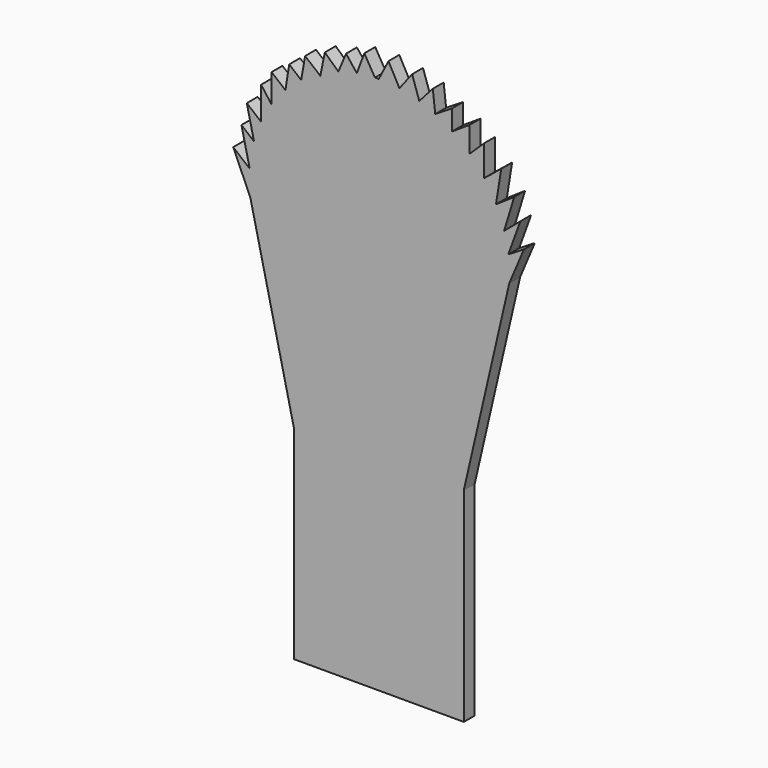
from build123d import *

# Parameters (mm, degrees)
F1_DEPTH = 2


with BuildPart() as f1:
    # F0 (on Front) → F1 (new body)
    with BuildSketch(Plane.XZ):
        with BuildLine():
            Line((-12.5, -15), (12.5, -15))
            Line((12.5, -15), (12.5, 15))
            Line((12.5, 15), (19.188319, 43.970291))
            Line((19.188319, 43.970291), (21.337286, 49.042992))
            Line((21.337286, 49.042992), (19.039087, 47.647727))
            Line((19.039087, 47.647727), (20.801328, 52.496947))
            Line((20.801328, 52.496947), (18.424573, 50.489065))
            Line((18.424573, 50.489065), (19.908065, 55.355389))
            Line((19.908065, 55.355389), (17.226272, 53.535521))
            Line((17.226272, 53.535521), (18.002436, 58.392484))
            Line((18.002436, 58.392484), (15.501298, 56.366656))
            Line((15.501298, 56.366656), (15.501298, 60.886702))
            Line((15.501298, 60.886702), (13.357465, 58.815028))
            Line((13.357465, 58.815028), (13.357465, 62.56105))
            Line((13.357465, 62.56105), (10.796777, 60.886702))
            Line((10.796777, 60.886702), (10.796777, 63.871168))
            Line((10.796777, 63.871168), (8.295841, 62.314177))
            Line((8.295841, 62.314177), (7.938334, 65.47904))
            Line((7.938334, 65.47904), (5.947843, 63.244458))
            Line((5.947843, 63.244458), (4.901238, 66.372305))
            Line((4.901238, 66.372305), (3.031312, 63.935702))
            Line((3.031312, 63.935702), (1.420656, 66.934533))
            Line((1.420656, 66.934533), (0, 64.162636))
            ThreePointArc((0, 64.162636), (-0.284516, 64.159145), (-0.568948, 64.151423))
            Line((-0.568948, 64.151423), (-2.127863, 66.794239))
            Line((-2.127863, 66.794239), (-3.23478, 63.871239))
            Line((-3.23478, 63.871239), (-4.81896, 65.873601))
            Line((-4.81896, 65.873601), (-5.945412, 63.184827))
            Line((-5.945412, 63.184827), (-7.934967, 65.02378))
            Line((-7.934967, 65.02378), (-8.529011, 62.109493))
            Line((-8.529011, 62.109493), (-8.599, 61.766136))
            Line((-8.599, 61.766136), (-8.828576, 61.954888))
            Line((-8.828576, 61.954888), (-10.83852, 63.607417))
            Line((-10.83852, 63.607417), (-11.411858, 60.316091))
            Line((-11.411858, 60.316091), (-13.175525, 61.766136))
            Line((-13.175525, 61.766136), (-13.733419, 58.252333))
            Line((-13.733419, 58.252333), (-15.767695, 59.924867))
            Line((-15.767695, 59.924867), (-15.767695, 55.726026))
            Line((-15.767695, 55.726026), (-17.302681, 57.800312))
            Line((-17.302681, 57.800312), (-17.302681, 52.987379))
            Line((-17.302681, 52.987379), (-19.411793, 54.721442))
            Line((-19.411793, 54.721442), (-18.347704, 50.112366))
            Line((-18.347704, 50.112366), (-20.197676, 51.63337))
            Line((-20.197676, 51.63337), (-18.985868, 46.384456))
            Line((-18.985868, 46.384456), (-21.409483, 48.377095))
            Line((-21.409483, 48.377095), (-18.884217, 42.653084))
            Line((-18.884217, 42.653084), (-12.5, 15))
            Line((-12.5, 15), (-12.5, -15))
        make_face()
    extrude(amount=F1_DEPTH)


solid = f1.part
